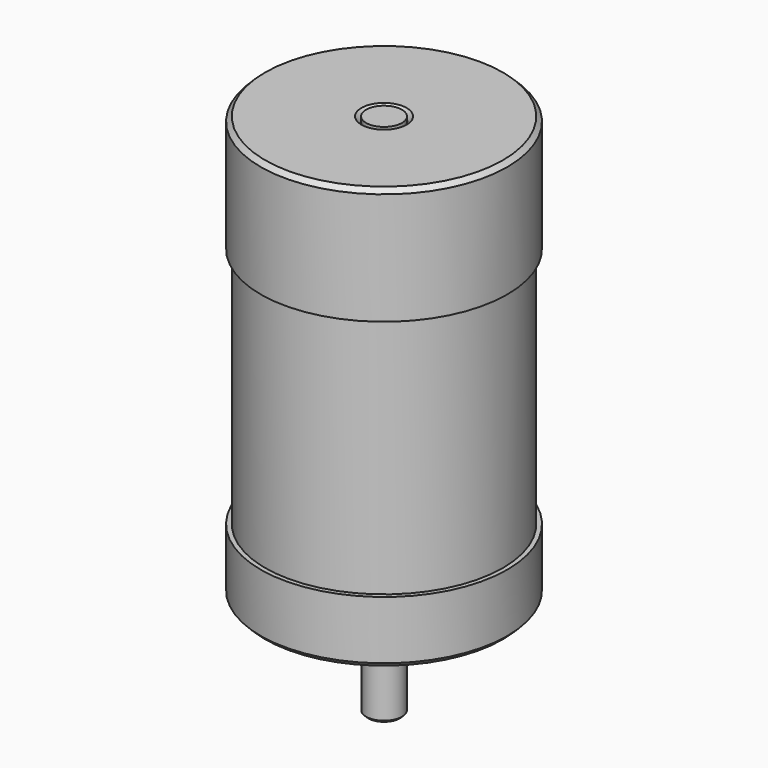
from build123d import *

# Parameters (mm, degrees)
F0_R       = 27.5
F1_DEPTH   = 17
F2_R       = 27.5
F2_R_2     = 12.5
F3_DEPTH   = 3
F4_R       = 26.5
F5_DEPTH   = 54
F6_R       = 27.5
F7_DEPTH   = 26
F8_SIZE    = 1
F8_2_SIZE  = 1
F9_R       = 4.05
F10_DEPTH  = 97.001
F11_SIZE   = 1
F11_2_SIZE = 1
F12_R      = 4
F13_DEPTH  = 117
F14_SIZE   = 0.5
F16_DEPTH  = 15
F17_R      = 1.6
F18_DEPTH  = 94.001


with BuildPart() as f1:
    # F0 (on Top) → F1 (new body)
    with BuildSketch(Plane.XY):
        Circle(F0_R)
    extrude(amount=F1_DEPTH)

    # F2 (on face) → F3 (cut)
    with BuildSketch(Plane(origin=(0, 0, 0), x_dir=(1, 0, 0), z_dir=(0, 0, -1))):
        Circle(F2_R)
        Circle(F2_R_2, mode=Mode.SUBTRACT)
    extrude(amount=-F3_DEPTH, mode=Mode.SUBTRACT)

    # F8#2
    f8_2_edges = [f1.edges().sort_by_distance(p)[0] for p in [
        (-27.5, 0, 3),
    ]]
    chamfer(f8_2_edges, length=F8_2_SIZE)


with BuildPart() as f5:
    # F4 (on face) → F5 (new body)
    with BuildSketch(Plane.XY.offset(17)):
        Circle(F4_R)
    extrude(amount=F5_DEPTH)


with BuildPart() as f7:
    # F6 (on face) → F7 (new body)
    with BuildSketch(Plane.XY.offset(71)):
        Circle(F6_R)
    extrude(amount=F7_DEPTH)

    # F8
    f8_edges = [f7.edges().sort_by_distance(p)[0] for p in [
        (-27.5, 0, 97),
    ]]
    chamfer(f8_edges, length=F8_SIZE)


with BuildPart() as f10_tool:
    # F9 (on face) → F10 (new body, through all)
    with BuildSketch(Plane(origin=(0, 0, 0), x_dir=(1, 0, 0), z_dir=(0, 0, -1))):
        Circle(F9_R)
    extrude(amount=-F10_DEPTH)


with BuildPart() as f1_1:
    add(f1.part)

    # F10: cut by f10_tool
    add(f10_tool.part, mode=Mode.SUBTRACT)

    # F11#2
    f11_2_edges = [f1_1.edges().sort_by_distance(p)[0] for p in [
        (-4.05, 0, 0),
    ]]
    chamfer(f11_2_edges, length=F11_2_SIZE)

    # F17 (on face) → F18 (cut, through all)
    with BuildSketch(Plane(origin=(0, 0, 3), x_dir=(1, 0, 0), z_dir=(0, 0, -1))):
        with Locations((-12.7279220614, 12.7279220614)):
            Circle(F17_R)
        with Locations((-12.7279220614, -12.7279220614)):
            Circle(F17_R)
        with Locations((12.7279220614, -12.7279220614)):
            Circle(F17_R)
        with Locations((12.7279220614, 12.7279220614)):
            Circle(F17_R)
    extrude(amount=-F18_DEPTH, mode=Mode.SUBTRACT)


with BuildPart() as f5_1:
    add(f5.part)

    # F10: cut by f10_tool
    add(f10_tool.part, mode=Mode.SUBTRACT)


with BuildPart() as f7_1:
    add(f7.part)

    # F10: cut by f10_tool
    add(f10_tool.part, mode=Mode.SUBTRACT)

    # F11
    f11_edges = [f7_1.edges().sort_by_distance(p)[0] for p in [
        (-4.05, 0, 97),
    ]]
    chamfer(f11_edges, length=F11_SIZE)


with BuildPart() as f13:
    # F12 (on face) → F13 (new body)
    with BuildSketch(Plane.XY.offset(97)):
        Circle(F12_R)
    extrude(amount=-F13_DEPTH)

    # F14
    f14_edges = [f13.edges().sort_by_distance(p)[0] for p in [
        (-4, 0, -20),
    ]]
    chamfer(f14_edges, length=F14_SIZE)

    # F15 (on face) → F16 (cut)
    with BuildSketch(Plane(origin=(0, 0, -20), x_dir=(1, 0, 0), z_dir=(0, 0, -1))):
        with BuildLine():
            Line((-2.5, -6.5148589839), (-2.5, 6.5148589839))
            ThreePointArc((-2.5, 6.5148589839), (-6.9780647446, 0), (-2.5, -6.5148589839))
        make_face()
    extrude(amount=-F16_DEPTH, mode=Mode.SUBTRACT)


solid = Compound([f1_1.part, f5_1.part, f7_1.part, f13.part])
